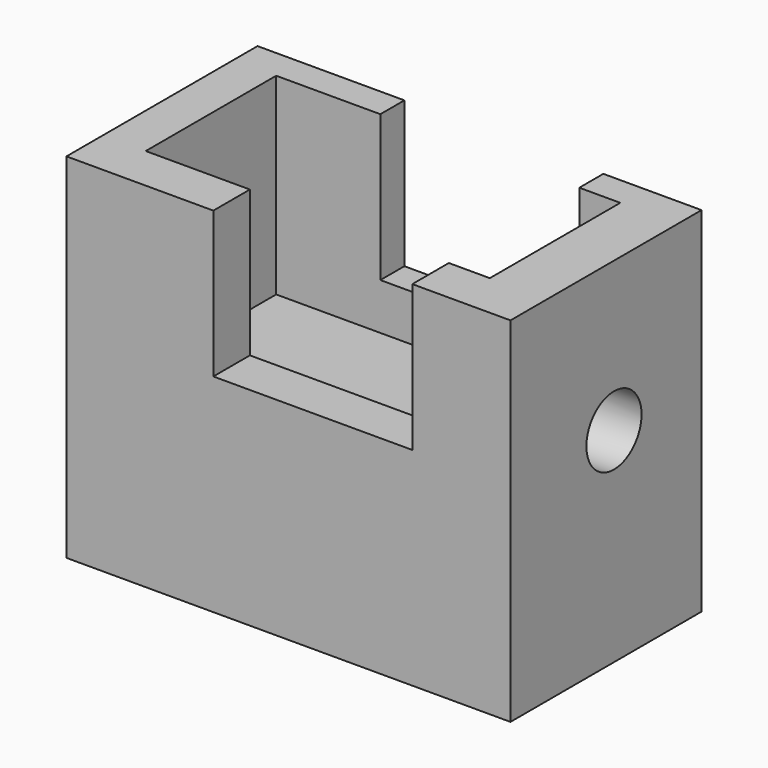
from build123d import *

# Parameters (mm, degrees)
F0_W     = 95.8645157516
F0_H     = 76.322901994
F1_DEPTH = 51.562
F2_W     = 74.2949992418
F2_H     = 35.2117735893
F3_DEPTH = 73.152
F4_R     = 7.4407227367
F5_DEPTH = 53.34
F6_W     = 42.9546777159
F6_H     = 31.5246768296
F7_DEPTH = 57.912


with BuildPart() as f1:
    # F0 (on Front) → F1 (new body)
    with BuildSketch(Plane.XZ):
        with Locations((-1.3826619834, 3.4105647355)):
            Rectangle(F0_W, F0_H)
    extrude(amount=-F1_DEPTH)

    # F2 (on Top) → F3 (cut)
    with BuildSketch(Plane.XY):
        with Locations((-2.9496774077, 27.4688703939)):
            Rectangle(F2_W, F2_H)
    extrude(amount=F3_DEPTH, mode=Mode.SUBTRACT)

    # F4 (on Right) → F5 (cut, symmetric)
    with BuildSketch(Plane.YZ):
        with Locations((27.929758653, 9.309919551)):
            Circle(F4_R)
    extrude(amount=F5_DEPTH, both=True, mode=Mode.SUBTRACT)

    # F6 (on face) → F7 (cut)
    with BuildSketch(Plane.XZ):
        with Locations((3.871451132, 25.8096773177)):
            Rectangle(F6_W, F6_H)
    extrude(amount=-F7_DEPTH, mode=Mode.SUBTRACT)


solid = f1.part
